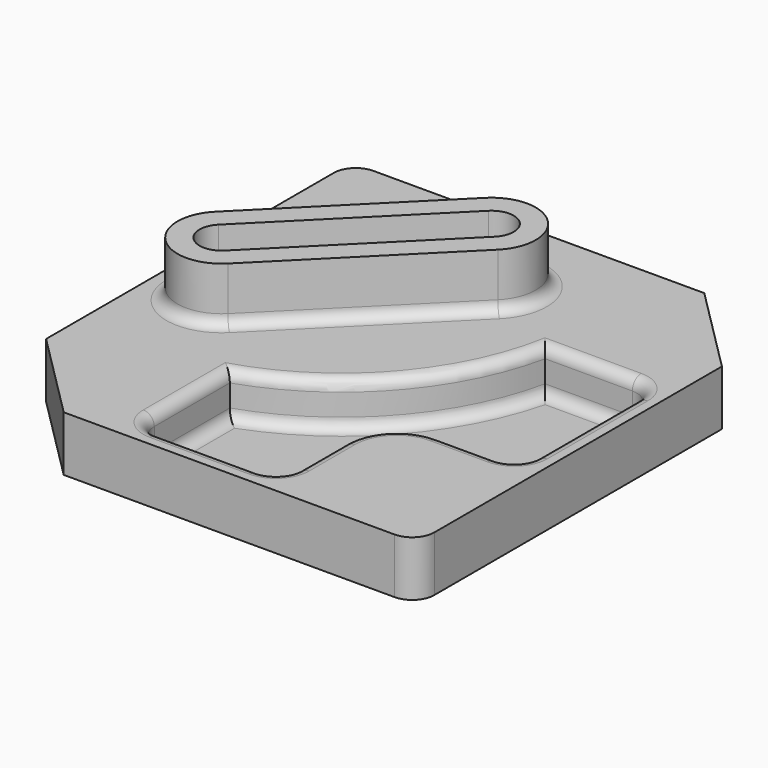
from build123d import *

# Parameters (mm, degrees)
F1_DEPTH = 25
F4_DEPTH = 20
F6_DEPTH = 25
F7_R     = 10
F8_R     = 5


with BuildPart() as f1:
    # F0 (on Top) → F1 (new body)
    with BuildSketch(Plane.XY):
        Polygon((-100, -66.5), (-60, -106.5), (100, -106.5), (100, 66.5), (60, 106.5), (-100, 106.5), align=None)
    extrude(amount=F1_DEPTH)

    # F3 (on offset) → F4 (cut)
    with BuildSketch(Plane(origin=(0, 0, 25), x_dir=(1, 0, 0), z_dir=(0, 0, -1))):
        with BuildLine():
            Line((81, 37.5), (55, 37.5))
            ThreePointArc((55, 37.5), (38.029437, 44.529437), (31, 61.5))
            Line((31, 61.5), (31, 87.5))
            ThreePointArc((31, 87.5), (28.071068, 94.571068), (21, 97.5))
            Line((21, 97.5), (-24.134773, 97.5))
            ThreePointArc((-24.134773, 97.5), (-31.205841, 94.571068), (-34.134773, 87.5))
            Line((-34.134773, 87.5), (-34.134773, 44.720071))
            ThreePointArc((-34.134773, 44.720071), (14.857983, 12.655203), (41.471526, -39.5))
            Line((41.471526, -39.5), (81, -39.5))
            ThreePointArc((81, -39.5), (88.071068, -36.571068), (91, -29.5))
            Line((91, -29.5), (91, 27.5))
            ThreePointArc((91, 27.5), (88.071068, 34.571068), (81, 37.5))
        make_face()
    extrude(amount=F4_DEPTH, mode=Mode.SUBTRACT)

    # F5 (on face) → F6 (join)
    with BuildSketch(Plane.XY.offset(25)):
        with BuildLine():
            Line((-16.142136, 77.642136), (-84.142136, 9.642136))
            ThreePointArc((-84.142136, 9.642136), (-84.142136, -18.642136), (-55.857864, -18.642136))
            Line((-55.857864, -18.642136), (12.142136, 49.357864))
            ThreePointArc((12.142136, 49.357864), (12.142136, 77.642136), (-16.142136, 77.642136))
        make_face()
        with BuildLine():
            ThreePointArc((-9.071068, 70.571068), (5.071068, 70.571068), (5.071068, 56.428932))
            Line((5.071068, 56.428932), (-62.928932, -11.571068))
            ThreePointArc((-62.928932, -11.571068), (-77.071068, -11.571068), (-77.071068, 2.571068))
            Line((-77.071068, 2.571068), (-9.071068, 70.571068))
        make_face(mode=Mode.SUBTRACT)
    extrude(amount=F6_DEPTH)

    # F7
    f7_edges = [f1.edges().sort_by_distance(p)[0] for p in [
        (100, -106.5, 12.5),
        (-100, 106.5, 12.5),
    ]]
    fillet(f7_edges, radius=F7_R)

    # F8
    f8_edges = [f1.edges().sort_by_distance(p)[0] for p in [
        (61.235763, 39.5, 5),
        (14.857983, -12.655203, 5),
        (-34.134773, -66.110035, 5),
        (91, 1, 5),
        (-21.857864, 15.357864, 25),
        (14.857983, -12.655203, 25),
        (61.235763, 39.5, 25),
    ]]
    fillet(f8_edges, radius=F8_R)


solid = f1.part
